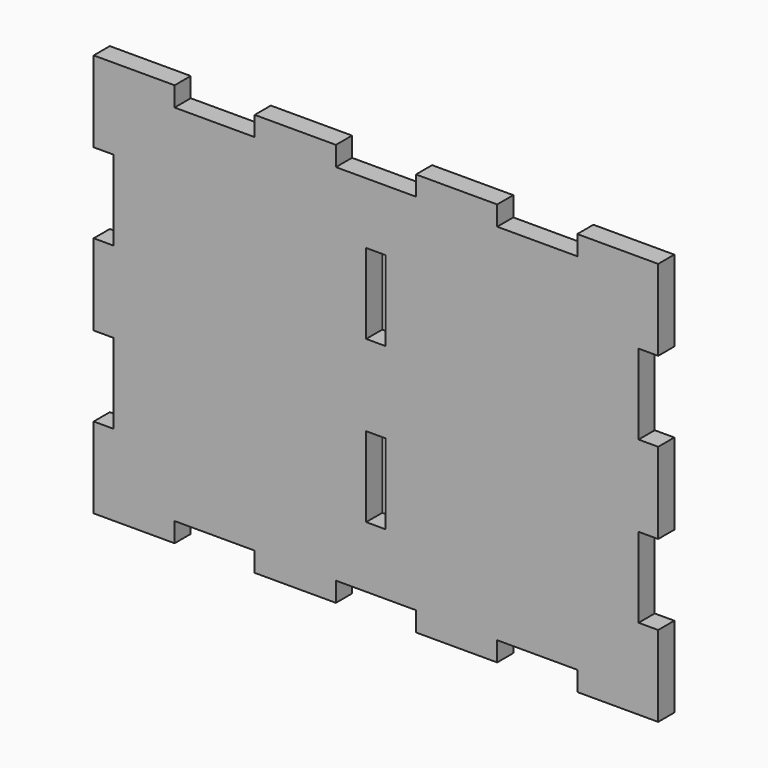
from build123d import *

# Parameters (mm, degrees)
F1_DEPTH = 6.35
F2_W     = 6.1722
F2_H     = 25.2222
F3_DEPTH = 6.351


with BuildPart() as f1:
    # F0 (on Front) → F1 (new body)
    with BuildSketch(Plane.XZ):
        Polygon((0, 25.4889), (0, 0), (25.4889, 0), (25.4889, 6.1722), (50.7111, 6.1722), (50.7111, 0), (76.2889, 0), (76.2889, 6.1722), (101.5111, 6.1722), (101.5111, 0), (127.0889, 0), (127.0889, 6.1722), (152.3111, 6.1722), (152.3111, 0), (177.8, 0), (177.8, 25.4889), (171.6278, 25.4889), (171.6278, 50.7111), (177.8, 50.7111), (177.8, 76.2889), (171.6278, 76.2889), (171.6278, 101.5111), (177.8, 101.5111), (177.8, 127), (152.3111, 127), (152.3111, 120.8278), (127.0889, 120.8278), (127.0889, 127), (101.5111, 127), (101.5111, 120.8278), (76.2889, 120.8278), (76.2889, 127), (50.7111, 127), (50.7111, 120.8278), (25.4889, 120.8278), (25.4889, 127), (0, 127), (0, 101.5111), (6.1722, 101.5111), (6.1722, 76.2889), (0, 76.2889), (0, 50.7111), (6.1722, 50.7111), (6.1722, 25.4889), align=None)
    extrude(amount=F1_DEPTH)

    # F2 (on face) → F3 (cut, through all)
    with BuildSketch(Plane.XZ.offset(6.35)):
        with Locations((88.9, 88.9)):
            Rectangle(F2_W, F2_H)
        with Locations((88.9, 38.1)):
            Rectangle(F2_W, F2_H)
    extrude(amount=-F3_DEPTH, mode=Mode.SUBTRACT)


solid = f1.part
